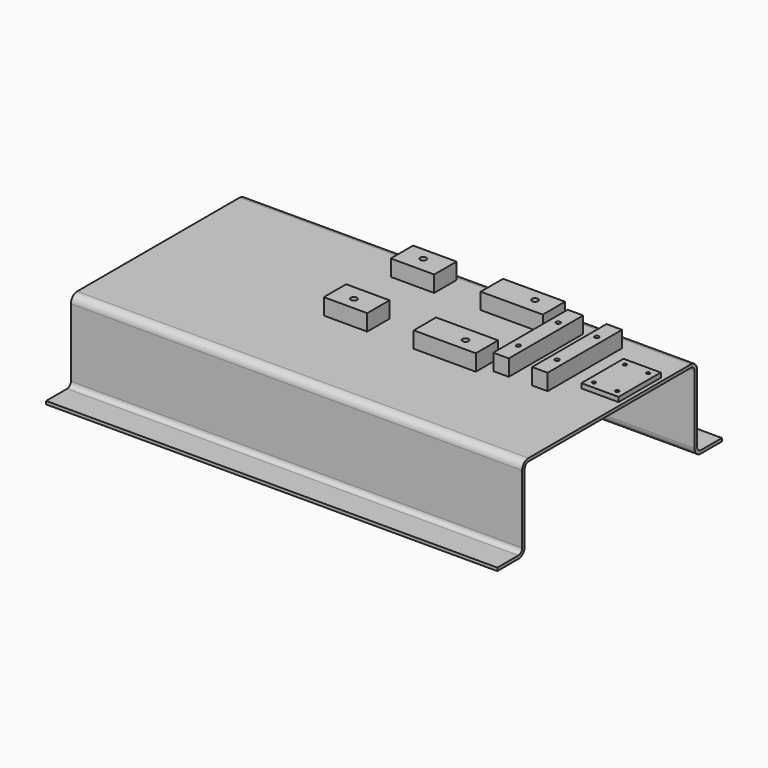
from build123d import *

# Parameters (mm, degrees)
F1_DEPTH = 923.925
F2_W     = 152.4
F2_H     = 215.9
F2_R     = 7.14375
F3_DEPTH = 19.05
F4_W     = 63.5
F4_H     = 381
F4_R     = 8.73125
F5_DEPTH = 66.548
F6_W     = 177.8
F6_H     = 114.3
F6_R     = 12.7
F6_W_2   = 254
F7_DEPTH = 66.548


with BuildPart() as f1:
    # F0 (on Right) → F1 (new body, symmetric)
    with BuildSketch(Plane.YZ):
        with BuildLine():
            Line((415.925, 171.45), (-415.925, 171.45))
            ThreePointArc((-415.925, 171.45), (-438.37564, 162.15064), (-447.675, 139.7))
            Line((-447.675, 139.7), (-447.675, -139.7))
            ThreePointArc((-447.675, -139.7), (-453.254616, -153.170384), (-466.725, -158.75))
            Line((-466.725, -158.75), (-574.675, -158.75))
            Line((-574.675, -158.75), (-574.675, -171.45))
            Line((-574.675, -171.45), (-466.725, -171.45))
            ThreePointArc((-466.725, -171.45), (-444.27436, -162.15064), (-434.975, -139.7))
            Line((-434.975, -139.7), (-434.975, 139.7))
            ThreePointArc((-434.975, 139.7), (-429.395384, 153.170384), (-415.925, 158.75))
            Line((-415.925, 158.75), (415.925, 158.75))
            ThreePointArc((415.925, 158.75), (429.395384, 153.170384), (434.975, 139.7))
            Line((434.975, 139.7), (434.975, -139.7))
            ThreePointArc((434.975, -139.7), (444.27436, -162.15064), (466.725, -171.45))
            Line((466.725, -171.45), (574.675, -171.45))
            Line((574.675, -171.45), (574.675, -158.75))
            Line((574.675, -158.75), (466.725, -158.75))
            ThreePointArc((466.725, -158.75), (453.254616, -153.170384), (447.675, -139.7))
            Line((447.675, -139.7), (447.675, 139.7))
            ThreePointArc((447.675, 139.7), (438.37564, 162.15064), (415.925, 171.45))
        make_face()
    extrude(amount=F1_DEPTH, both=True)

    # F2 (on face) → F3 (join)
    with BuildSketch(Plane.XY.offset(171.45)):
        with Locations((830.961, 174.625)):
            Rectangle(F2_W, F2_H)
        with Locations((783.209, 95.377)):
            Circle(F2_R, mode=Mode.SUBTRACT)
        with Locations((878.713, 95.377)):
            Circle(F2_R, mode=Mode.SUBTRACT)
        with Locations((783.209, 253.873)):
            Circle(F2_R, mode=Mode.SUBTRACT)
        with Locations((878.713, 253.873)):
            Circle(F2_R, mode=Mode.SUBTRACT)
    extrude(amount=F3_DEPTH)

    # F4 (on face) → F5 (join)
    with BuildSketch(Plane.XY.offset(171.45)):
        with Locations((491.871, 174.625)):
            Rectangle(F4_W, F4_H)
        with Locations((492.125, 73.025)):
            Circle(F4_R, mode=Mode.SUBTRACT)
        with Locations((492.125, 276.225)):
            Circle(F4_R, mode=Mode.SUBTRACT)
        with Locations((650.875, 174.625)):
            Rectangle(F4_W, F4_H)
        with Locations((650.621, 73.025)):
            Circle(F4_R, mode=Mode.SUBTRACT)
        with Locations((650.621, 276.225)):
            Circle(F4_R, mode=Mode.SUBTRACT)
    extrude(amount=F5_DEPTH)

    # F6 (on face) → F7 (join)
    with BuildSketch(Plane.XY.offset(171.45)):
        with Locations((-114.427, 3.175)):
            Rectangle(F6_W, F6_H)
        with Locations((-120.777, -3.175)):
            Circle(F6_R, mode=Mode.SUBTRACT)
        with Locations((291.973, 3.175)):
            Rectangle(F6_W_2, F6_H)
        with Locations((336.423, -3.175)):
            Circle(F6_R, mode=Mode.SUBTRACT)
        with Locations((-114.427, 346.075)):
            Rectangle(F6_W, F6_H)
        with Locations((-120.777, 352.425)):
            Circle(F6_R, mode=Mode.SUBTRACT)
        with Locations((291.973, 346.075)):
            Rectangle(F6_W_2, F6_H)
        with Locations((336.423, 352.425)):
            Circle(F6_R, mode=Mode.SUBTRACT)
    extrude(amount=F7_DEPTH)


solid = f1.part
